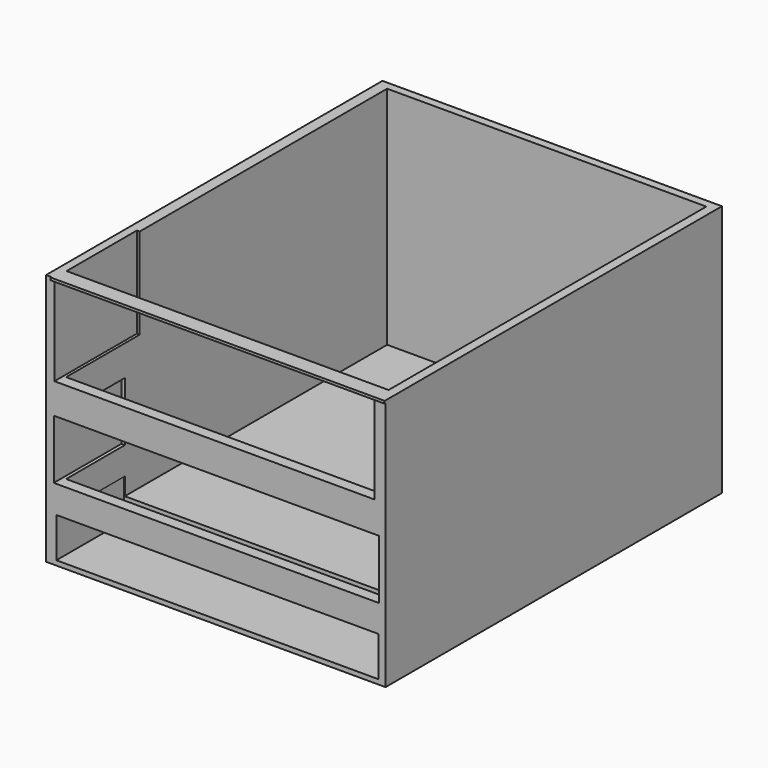
from build123d import *

# Parameters (mm, degrees)
F0_W      = 102.108002
F0_H      = 126.492004
F1_DEPTH  = 75.946
F2_W      = 96.012
F2_H      = 120.700798
F3_DEPTH  = 67.818
F5_W      = 96.219298
F5_H      = 27.314827
F6_DEPTH  = 30.988
F7_W      = 97.910039
F7_H      = 17.801825
F8_DEPTH  = 25.4
F9_W      = 96.860379
F9_H      = 11.997812
F10_DEPTH = 25.4
F11_W     = 100.584
F11_H     = 4.876796
F12_DEPTH = 0.762


with BuildPart() as f1:
    # F0 (on Top) → F1 (new body)
    with BuildSketch(Plane.XY):
        with Locations((0.609599, -3.505202)):
            Rectangle(F0_W, F0_H)
    extrude(amount=-F1_DEPTH)

    # F2 (on face) → F3 (cut)
    with BuildSketch(Plane.XY):
        with Locations((0.9144, -3.047999)):
            Rectangle(F2_W, F2_H)
    extrude(amount=-F3_DEPTH, mode=Mode.SUBTRACT)

    # F5 (on face) → F6 (cut)
    with BuildSketch(Plane.XZ.offset(66.751204)):
        with Locations((0.171637, -13.657413)):
            Rectangle(F5_W, F5_H)
    extrude(amount=-F6_DEPTH, mode=Mode.SUBTRACT)

    # F7 (on face) → F8 (cut)
    with BuildSketch(Plane.XZ.offset(66.751204)):
        with Locations((0.818689, -45.399124)):
            Rectangle(F7_W, F7_H)
    extrude(amount=-F8_DEPTH, mode=Mode.SUBTRACT)

    # F9 (on face) → F10 (cut)
    with BuildSketch(Plane.XZ.offset(66.751204)):
        with Locations((1.082152, -68.534743)):
            Rectangle(F9_W, F9_H)
    extrude(amount=-F10_DEPTH, mode=Mode.SUBTRACT)

    # F11 (on Top) → F12 (join)
    with BuildSketch(Plane.XY):
        with Locations((1.3716, -64.617602)):
            Rectangle(F11_W, F11_H)
    extrude(amount=-F12_DEPTH)


solid = f1.part
